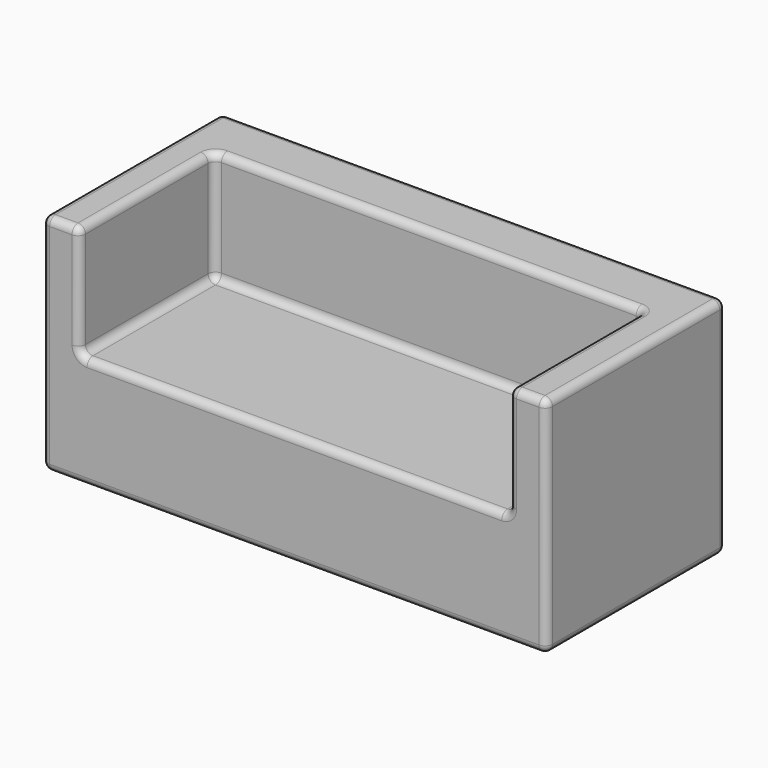
from build123d import *

# Parameters (mm, degrees)
F0_W     = 2057.4
F0_H     = 914.4
F1_DEPTH = 914.4
F2_W     = 1752.6
F2_H     = 685.8
F3_DEPTH = 457.2
F4_R     = 30.48


with BuildPart() as f1:
    # F0 (on Top) → F1 (new body)
    with BuildSketch(Plane.XY):
        Rectangle(F0_W, F0_H)
    extrude(amount=F1_DEPTH)

    # F2 (on face) → F3 (cut)
    with BuildSketch(Plane.XY.offset(914.4)):
        with Locations((0, -114.3)):
            Rectangle(F2_W, F2_H)
    extrude(amount=-F3_DEPTH, mode=Mode.SUBTRACT)

    # F4
    f4_edges = [f1.edges().sort_by_distance(p)[0] for p in [
        (876.3, -114.3, 457.2),
        (0, 228.6, 457.2),
        (-876.3, -114.3, 457.2),
        (0, -457.2, 457.2),
        (-876.3, 228.6, 685.8),
        (-876.3, -457.2, 685.8),
        (-876.3, -114.3, 914.4),
        (876.3, 228.6, 685.8),
        (0, 228.6, 914.4),
        (0, -457.2, 0),
        (1028.7, -457.2, 457.2),
        (952.5, -457.2, 914.4),
        (876.3, -457.2, 685.8),
        (-952.5, -457.2, 914.4),
        (-1028.7, -457.2, 457.2),
        (-1028.7, 0, 914.4),
        (0, 457.2, 914.4),
        (1028.7, 0, 914.4),
        (876.3, -114.3, 914.4),
        (1028.7, 457.2, 457.2),
        (1028.7, 0, 0),
        (-1028.7, 457.2, 457.2),
        (-1028.7, 0, 0),
        (0, 457.2, 0),
    ]]
    fillet(f4_edges, radius=F4_R)


solid = f1.part
